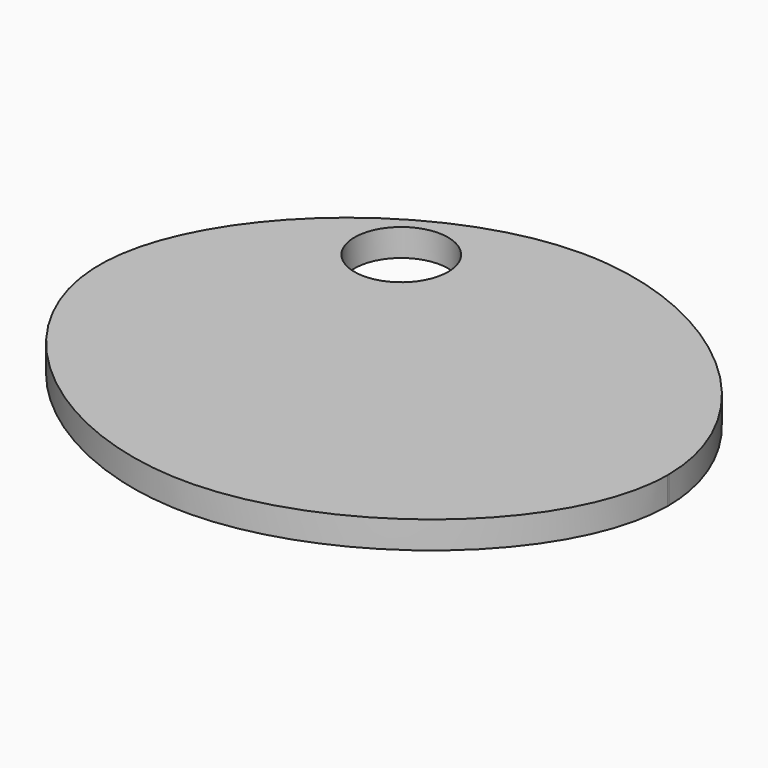
from build123d import *

# Parameters (mm, degrees)
F0_W     = 400
F0_H     = 350
F1_DEPTH = 19
F3_DEPTH = 25
F2_R     = 32.5444100718
F4_DEPTH = 25


with BuildPart() as f1:
    # F0 (on Top) → F1 (new body)
    with BuildSketch(Plane.XY):
        Rectangle(F0_W, F0_H)
    extrude(amount=F1_DEPTH)

    # F2 (on face) → F3 (cut)
    with BuildSketch(Plane.XY.offset(19)):
        with BuildLine():
            Line((200, 175), (1.2303346045, 175))
            add(Edge.make_bspline(
                [(200, 1.2037944383), (199.5351083689, 87.0242167051), (99.8085920468, 174.6364886784), (1.2303346045, 175)],
                knots=[0.7494961922, 0.7494961922, 0.7494961922, 0.7494961922, 0.9989620997, 0.9989620997, 0.9989620997, 0.9989620997], degree=3))
            Line((200, 1.2037944383), (200, 175))
        make_face()
        with BuildLine():
            add(Edge.make_bspline(
                [(0, 175), (-98.8187558399, 174.6350450151), (-292.6120906446, -1.5966892013), (-0.9342373868, -252.8984666735), (199.5335407467, -85.9557258275), (200, 0)],
                knots=[0, 0, 0, 0, 0.2501031726, 0.4984159764, 0.7483296585, 0.7483296585, 0.7483296585, 0.7483296585], degree=3))
            Line((0, 175), (-200, 175))
            Line((-200, 175), (-200, -175))
            Line((-200, -175), (200, -175))
            Line((200, -175), (200, 0))
        make_face()
    extrude(amount=-F3_DEPTH, mode=Mode.SUBTRACT)

    # F2 (on face) → F4 (cut)
    with BuildSketch(Plane.XY.offset(19)):
        with Locations((-75.0856101513, 112.3721450567)):
            Circle(F2_R)
    extrude(amount=-F4_DEPTH, mode=Mode.SUBTRACT)


solid = f1.part
